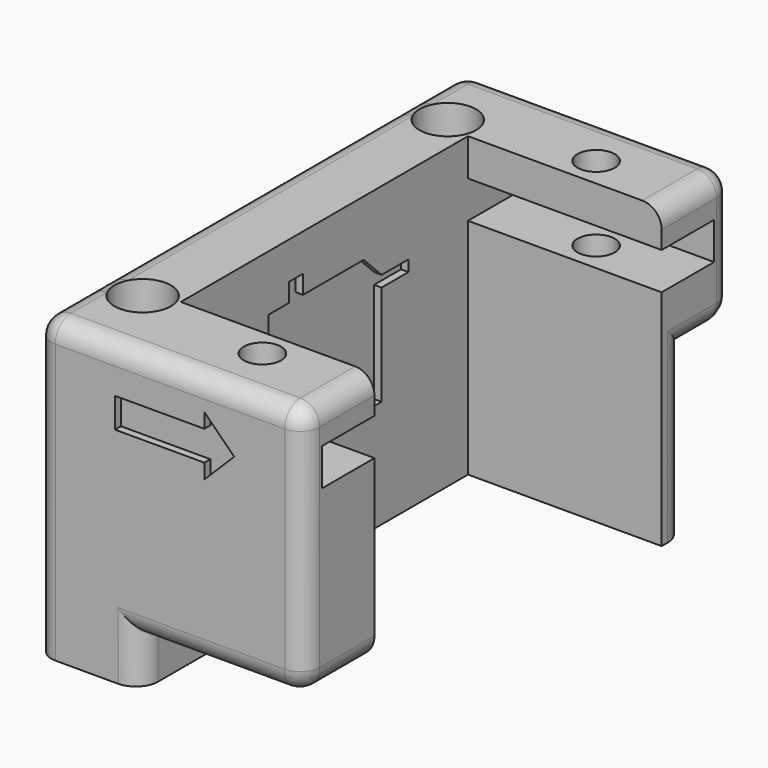
from build123d import *

# Parameters (mm, degrees)
PAD015_DEPTH      = 0.5
BOX039_W          = 18
BOX039_H          = 10
BOX039_DEPTH      = 11
BOX038_W          = 14
BOX038_H          = 10
BOX038_DEPTH      = 10
CYLINDER036_R     = 1.25
CYLINDER036_DEPTH = 8
CYLINDER037_R     = 1.25
CYLINDER037_DEPTH = 8
CYLINDER014_R     = 1.9
CYLINDER014_DEPTH = 20
CYLINDER015_R     = 1.9
CYLINDER015_DEPTH = 20
BOX015_W          = 13
BOX015_H          = 4.9
BOX015_DEPTH      = 2.5
BOX035_W          = 13
BOX035_H          = 24.1
BOX035_DEPTH      = 20
BOX014_W          = 13
BOX014_H          = 4.9
BOX014_DEPTH      = 2.5
BOX016_W          = 18
BOX016_H          = 35.9
BOX016_DEPTH      = 20
FILLET008_R       = 1.3
FILLET010_R       = 1.5
POCKET020_DEPTH   = 0.5
POCKET021_DEPTH   = 0.5


with BuildPart() as pad015:
    # Sketch046 → Pad015 (new body)
    with BuildSketch(Plane(origin=(53.5, 6, 2.5), x_dir=(0, 1, 0), z_dir=(1, 0, 0))):
        Polygon((4.75, 6.75), (-4.75, 6.75), (-4.75, 13.5), (-7, 13.5), (-7, 14.25), (-4.75, 14.25), (-4.75, 15.75), (-3, 15.75), (-3, 17), (-1.85, 17), (-1.85, 15.75), (3.25, 15.75), (4.75, 14.25), (7, 14.25), (7, 13.5), (4.75, 13.5), align=None)
    extrude(amount=PAD015_DEPTH)


with BuildPart() as obj1:
    # Box039 → Box039 (new body)
    with BuildSketch(Plane(origin=(49, 20, 3), x_dir=(1, 0, 0), z_dir=(0, 0, 1))):
        with Locations((9, 5)):
            Rectangle(BOX039_W, BOX039_H)
    extrude(amount=BOX039_DEPTH)


with BuildPart() as obj2:
    # Box038 → Box038 (new body)
    with BuildSketch(Plane(origin=(57, -14, -4), x_dir=(1, 0, 0), z_dir=(0, 0, 1))):
        with Locations((7, 5)):
            Rectangle(BOX038_W, BOX038_H)
    extrude(amount=BOX038_DEPTH)


with BuildPart() as cylinder036:
    # Cylinder036 → Cylinder036 (new body)
    with BuildSketch(Plane(origin=(57, -106, 14), x_dir=(1, 0, 0), z_dir=(0, 0, 1))):
        Circle(CYLINDER036_R)
    extrude(amount=CYLINDER036_DEPTH)


with BuildPart() as fusion036:
    # Cylinder037 → Cylinder037 (new body)
    with BuildSketch(Plane(origin=(57, -134, 14), x_dir=(1, 0, 0), z_dir=(0, 0, 1))):
        Circle(CYLINDER037_R)
    extrude(amount=CYLINDER037_DEPTH)

    # Fusion036: union Cylinder036
    add(cylinder036.part)


with BuildPart() as cylinder014:
    # Cylinder014 → Cylinder014 (new body)
    with BuildSketch(Plane(origin=(48, -132.8, 1), x_dir=(1, 0, 0), z_dir=(0, 0, 1))):
        Circle(CYLINDER014_R)
    extrude(amount=CYLINDER014_DEPTH)


with BuildPart() as fusion035:
    # Cylinder015 → Cylinder015 (new body)
    with BuildSketch(Plane(origin=(48, -107.2, 1), x_dir=(1, 0, 0), z_dir=(0, 0, 1))):
        Circle(CYLINDER015_R)
    extrude(amount=CYLINDER015_DEPTH)

    # Fusion035: union Cylinder014
    add(cylinder014.part)


with BuildPart() as box015:
    # Box015 → Box015 (new body)
    with BuildSketch(Plane(origin=(50, -108.5, 16), x_dir=(1, 0, 0), z_dir=(0, 0, 1))):
        with Locations((6.5, 2.45)):
            Rectangle(BOX015_W, BOX015_H)
    extrude(amount=BOX015_DEPTH)


with BuildPart() as obj3:
    # Box035 → Box035 (new body)
    with BuildSketch(Plane(origin=(50, -132.1, 1), x_dir=(1, 0, 0), z_dir=(0, 0, 1))):
        with Locations((6.5, 12.05)):
            Rectangle(BOX035_W, BOX035_H)
    extrude(amount=BOX035_DEPTH)


with BuildPart() as fusion034:
    # Box014 → Box014 (new body)
    with BuildSketch(Plane(origin=(50, -136.5, 16), x_dir=(1, 0, 0), z_dir=(0, 0, 1))):
        with Locations((6.5, 2.45)):
            Rectangle(BOX014_W, BOX014_H)
    extrude(amount=BOX014_DEPTH)

    # Fusion034: union Box015, obj3
    add(box015.part)
    add(obj3.part)


with BuildPart() as obj4:
    # Box016 → Box016 (new body)
    with BuildSketch(Plane(origin=(45, -138, 1), x_dir=(1, 0, 0), z_dir=(0, 0, 1))):
        with Locations((9, 17.95)):
            Rectangle(BOX016_W, BOX016_H)
    extrude(amount=BOX016_DEPTH)

    # Cut012: cut Fusion034
    add(fusion034.part, mode=Mode.SUBTRACT)

    # Cut013: cut Fusion035
    add(fusion035.part, mode=Mode.SUBTRACT)

    # Cut016: cut Fusion036
    add(fusion036.part, mode=Mode.SUBTRACT)

    # Fillet008
    fillet008_edges = [obj4.edges().sort_by_distance(p)[0] for p in [
        (45, -138, 11),
        (45, -120.05, 21),
        (45, -102.1, 11),
        (63, -138, 11),
        (54, -138, 21),
        (54, -102.1, 21),
        (63, -105.05, 21),
        (63, -135.05, 21),
        (63, -102.1, 11),
    ]]
    fillet(fillet008_edges, radius=FILLET008_R)


with BuildPart() as obj4_1:
    # Fillet008 placement: moved
    add(obj4.part.moved(Location((5, 126, 2))))

    # Cut017: cut obj2
    add(obj2.part, mode=Mode.SUBTRACT)


with BuildPart() as obj4_2:
    # Cut017 placement: moved
    add(obj4_1.part.moved(Location((-1, 0, 0))))

    # Cut019: cut obj1
    add(obj1.part, mode=Mode.SUBTRACT)

    # Fillet010
    fillet010_edges = [obj4_2.edges().sort_by_distance(p)[0] for p in [
        (49, 21.3, 14),
        (49, 20, 8.5),
        (49.380761, 23.519239, 14),
        (58, 23.9, 14),
        (66.619239, 23.519239, 14),
        (67, 21.3, 14),
        (56, -12, 4.5),
        (60.85, -12, 6),
        (67, 20, 8.5),
        (67, -8.4, 6),
        (66.619239, -11.619239, 6),
    ]]
    fillet(fillet010_edges, radius=FILLET010_R)


with BuildPart() as obj4_3:
    # Fillet010 placement: moved
    add(obj4_2.part.moved(Location((0, 0, -1))))

    # Sketch044 → Pocket020 (cut)
    with BuildSketch(Plane(origin=(0, -12, -1), x_dir=(1, 0, 0), z_dir=(0, -1, 0))):
        Polygon((54.3, 19.95), (54.3, 17.95), (60.3, 17.95), (60.3, 16.95), (62.3, 18.95), (60.3, 20.95), (60.3, 19.95), align=None)
    extrude(amount=-POCKET020_DEPTH, mode=Mode.SUBTRACT)

    # Sketch045 → Pocket021 (cut)
    with BuildSketch(Plane(origin=(0, 23.9, -1), x_dir=(-1, 0, 0), z_dir=(0, 1, 0))):
        Polygon((-60.3, 19.95), (-54.3, 19.95), (-54.3, 17.95), (-60.3, 17.95), (-60.3, 16.95), (-62.3, 18.95), (-60.3, 20.95), align=None)
    extrude(amount=-POCKET021_DEPTH, mode=Mode.SUBTRACT)

    # Cut056: cut Pad015
    add(pad015.part, mode=Mode.SUBTRACT)


solid = obj4_3.part
